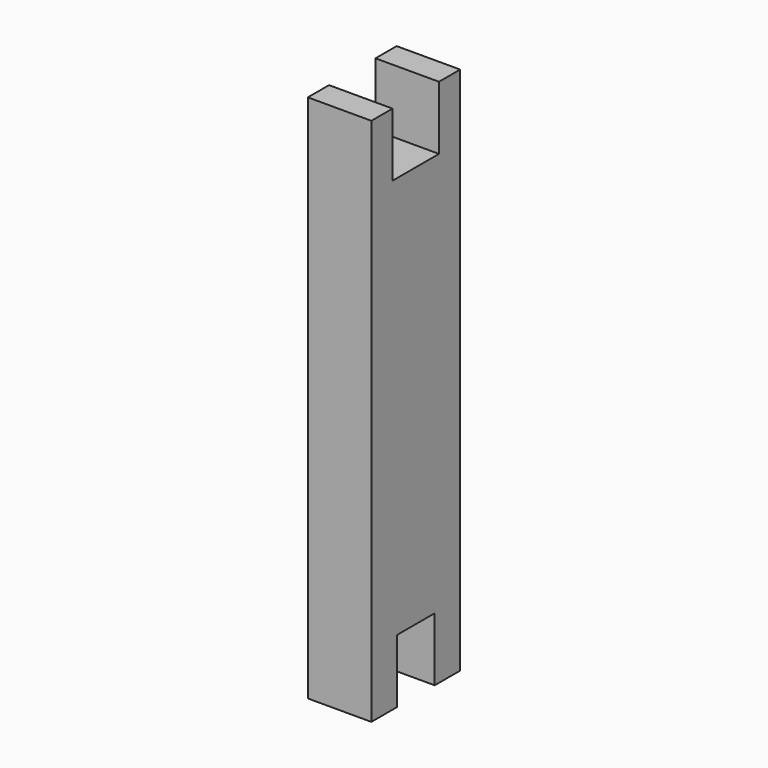
from build123d import *

# Parameters (mm, degrees)
F1_DEPTH = 19.05
F2_DEPTH = 9.525


with BuildPart() as f1:
    # F0 (on Right) → F1 (new body)
    with BuildSketch(Plane.YZ):
        Polygon((-42.835101, 79.173712), (-50.772601, 79.173712), (-50.772601, -79.576288), (-41.234901, -79.576288), (-41.234901, -60.526288), (-34.122901, -60.526288), (-27.010901, -60.526288), (-27.010901, -79.576288), (-17.473201, -79.576288), (-17.473201, 79.173712), (-25.410701, 79.173712), (-25.410701, 60.123712), (-34.122901, 60.123712), (-42.835101, 60.123712), align=None)
    extrude(amount=F1_DEPTH)

    # F0 (on Right) → F2 (join)
    with BuildSketch(Plane.YZ):
        Polygon((-42.835101, 79.173712), (-50.772601, 79.173712), (-50.772601, -79.576288), (-41.234901, -79.576288), (-41.234901, -60.526288), (-34.122901, -60.526288), (-27.010901, -60.526288), (-27.010901, -79.576288), (-17.473201, -79.576288), (-17.473201, 79.173712), (-25.410701, 79.173712), (-25.410701, 60.123712), (-34.122901, 60.123712), (-42.835101, 60.123712), align=None)
    extrude(amount=F2_DEPTH)


solid = f1.part
